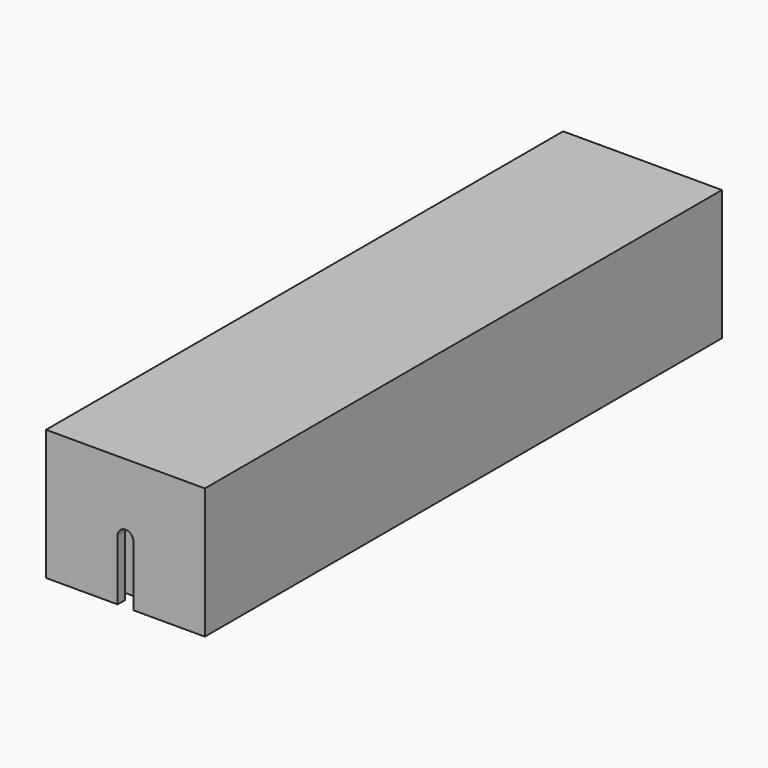
from build123d import *

# Parameters (mm, degrees)
F2_DEPTH  = 75
F1_W      = 5.5
F1_H      = 1.2
F3_DEPTH  = 1.2
F4_W      = 5.5
F4_H      = 1.2
F5_DEPTH  = 1.2
F6_W      = 20.2
F6_H      = 82.2
F6_W_2    = 17.8
F6_H_2    = 79.8
F7_DEPTH  = 15.4
F9_DEPTH  = 82.201
F10_W     = 20.2
F10_H     = 82.2
F11_DEPTH = 1.2


with BuildPart() as f2:
    # F1 (on Front) → F2 (new body)
    with BuildSketch(Plane.XZ):
        Polygon((6.5, 6.5), (6.5, -6.5), (-6.5, -6.5), (-6.5, 6.5), (-6.5, 7.7), (-7.7, 7.7), (-7.7, -7.7), (7.7, -7.7), (7.7, 7.7), (6.5, 7.7), align=None)
    extrude(amount=F2_DEPTH)

    # F1 (on Front) → F3 (join)
    with BuildSketch(Plane.XZ):
        with Locations((-3.75, 7.1)):
            Rectangle(F1_W, F1_H)
        with BuildLine():
            Line((-6.5, -6.5), (6.5, -6.5))
            Line((6.5, -6.5), (6.5, 6.5))
            Line((6.5, 6.5), (1, 6.5))
            Line((1, 6.5), (1, 0))
            ThreePointArc((1, 0), (0, -1), (-1, 0))
            Line((-1, 0), (-1, 6.5))
            Line((-1, 6.5), (-6.5, 6.5))
            Line((-6.5, 6.5), (-6.5, -6.5))
        make_face()
        Polygon((6.5, 6.5), (6.5, -6.5), (-6.5, -6.5), (-6.5, 6.5), (-6.5, 7.7), (-7.7, 7.7), (-7.7, -7.7), (7.7, -7.7), (7.7, 7.7), (6.5, 7.7), align=None)
        with Locations((3.75, 7.1)):
            Rectangle(F1_W, F1_H)
    extrude(amount=-F3_DEPTH)

    # F4 (on face) → F5 (join)
    with BuildSketch(Plane.XZ.offset(75)):
        with BuildLine():
            Line((-6.5, 6.5), (-6.5, -6.5))
            Line((-6.5, -6.5), (6.5, -6.5))
            Line((6.5, -6.5), (6.5, 6.5))
            Line((6.5, 6.5), (1, 6.5))
            Line((1, 6.5), (1, 0))
            ThreePointArc((1, 0), (0, -1), (-1, 0))
            Line((-1, 0), (-1, 6.5))
            Line((-1, 6.5), (-6.5, 6.5))
        make_face()
        Polygon((6.5, -6.5), (-6.5, -6.5), (-6.5, 6.5), (-6.5, 7.7), (-7.7, 7.7), (-7.7, -7.7), (7.7, -7.7), (7.7, 7.7), (6.5, 7.7), (6.5, 6.5), align=None)
        with Locations((3.75, 7.1)):
            Rectangle(F4_W, F4_H)
        with Locations((-3.75, 7.1)):
            Rectangle(F4_W, F4_H)
    extrude(amount=F5_DEPTH)


with BuildPart() as f7:
    # F6 (on face) → F7 (new body, through all)
    with BuildSketch(Plane.XY.offset(7.7)):
        with Locations((0, -37.5)):
            Rectangle(F6_W, F6_H)
        with Locations((0, -37.5)):
            Rectangle(F6_W_2, F6_H_2, mode=Mode.SUBTRACT)
    extrude(amount=-F7_DEPTH)

    # F8 (on face) → F9 (cut, through all)
    with BuildSketch(Plane.XZ.offset(78.6)):
        with BuildLine():
            Line((1, -7.7), (1, 0))
            ThreePointArc((1, 0), (0, 1), (-1, 0))
            Line((-1, 0), (-1, -7.7))
            Line((-1, -7.7), (1, -7.7))
        make_face()
    extrude(amount=-F9_DEPTH, mode=Mode.SUBTRACT)

    # F10 (on face) → F11 (join)
    with BuildSketch(Plane.XY.offset(7.7)):
        with Locations((0, -37.5)):
            Rectangle(F10_W, F10_H)
    extrude(amount=F11_DEPTH)


solid = Compound([f2.part, f7.part])
